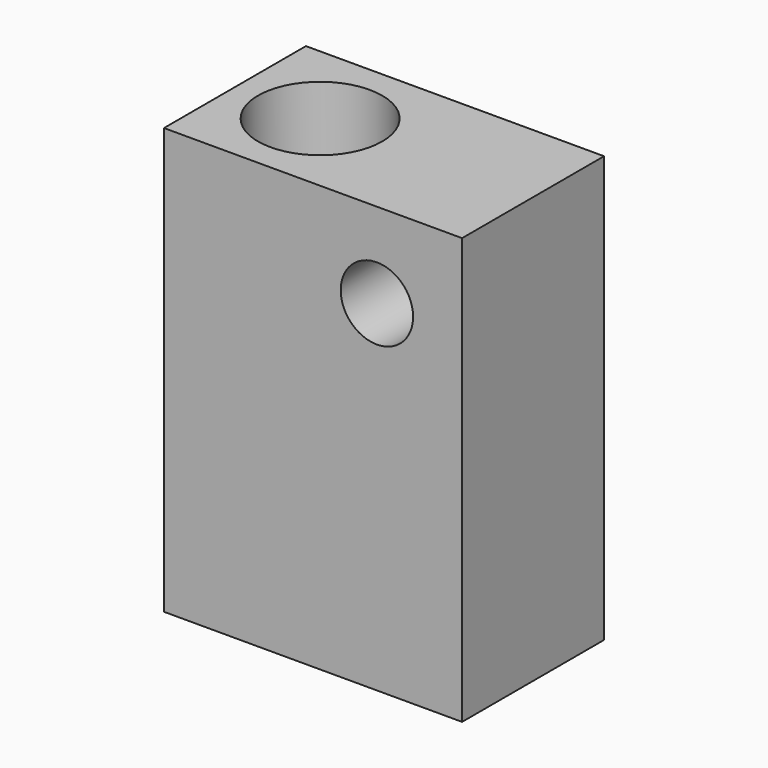
from build123d import *

# Parameters (mm, degrees)
F0_R     = 5.1
F1_DEPTH = 25
F2_R     = 5.1
F3_DEPTH = 63.5
F2_R_2   = 8.75
F4_DEPTH = 35


with BuildPart() as f1:
    # F0 (on Front) → F1 (new body)
    with BuildSketch(Plane.XZ):
        Polygon((-95.793277, 13.974321), (-95.793277, -46.025679), (-53.793277, -46.025679), (-53.793277, 1.974321), (-53.793277, 13.974321), (-65.793277, 13.974321), align=None)
        with Locations((-65.793277, 1.974321)):
            Circle(F0_R, mode=Mode.SUBTRACT)
    extrude(amount=F1_DEPTH)

    # F2 (on face) → F3 (cut)
    with BuildSketch(Plane.XY.offset(13.974321)):
        with Locations((-83.793277, -12.5)):
            Circle(F2_R)
    extrude(amount=-F3_DEPTH, mode=Mode.SUBTRACT)

    # F2 (on face) → F4 (cut)
    with BuildSketch(Plane.XY.offset(13.974321)):
        with Locations((-83.793277, -12.5)):
            Circle(F2_R_2)
        with Locations((-83.793277, -12.5)):
            Circle(F2_R, mode=Mode.SUBTRACT)
    extrude(amount=-F4_DEPTH, mode=Mode.SUBTRACT)


solid = f1.part
